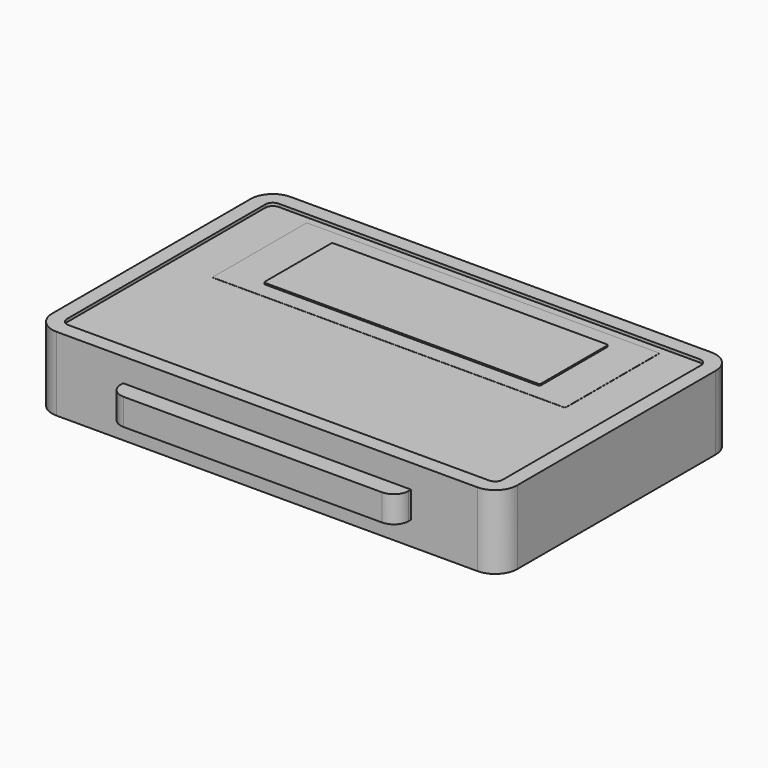
from build123d import *

# Parameters (mm, degrees)
F0_W      = 80.01
F0_H      = 50.292
F1_DEPTH  = 6.35
F2_R      = 3.81
F4_DEPTH  = 0.508
F5_W      = 49.53
F5_H      = 4.572
F6_DEPTH  = 3.048
F7_R      = 2.54
F9_DEPTH  = 0.0254
F11_DEPTH = 0.254
F13_DEPTH = 5.08


with BuildPart() as f1:
    # F0 (on Top) → F1 (new body, symmetric)
    with BuildSketch(Plane.XY):
        Rectangle(F0_W, F0_H)
    extrude(amount=F1_DEPTH, both=True)

    # F2
    f2_edges = [f1.edges().sort_by_distance(p)[0] for p in [
        (-40.005, -25.146, 0),
        (40.005, -25.146, 0),
        (40.005, 25.146, 0),
        (-40.005, 25.146, 0),
    ]]
    fillet(f2_edges, radius=F2_R)

    # F3 (on face) → F4 (cut)
    with BuildSketch(Plane.XY.offset(6.35)):
        with BuildLine():
            ThreePointArc((37.474391, 21.336), (37.099666, 22.240666), (36.195, 22.615391))
            Line((36.195, 22.615391), (-36.195, 22.615391))
            ThreePointArc((-36.195, 22.615391), (-37.099666, 22.240666), (-37.474391, 21.336))
            Line((-37.474391, 21.336), (-37.474391, -21.336))
            ThreePointArc((-37.474391, -21.336), (-37.099666, -22.240666), (-36.195, -22.615391))
            Line((-36.195, -22.615391), (36.195, -22.615391))
            ThreePointArc((36.195, -22.615391), (37.099666, -22.240666), (37.474391, -21.336))
            Line((37.474391, -21.336), (37.474391, 21.336))
        make_face()
    extrude(amount=-F4_DEPTH, mode=Mode.SUBTRACT)

    # F5 (on face) → F6 (join)
    with BuildSketch(Plane.XZ.offset(25.146)):
        Rectangle(F5_W, F5_H)
    extrude(amount=F6_DEPTH)

    # F7
    f7_edges = [f1.edges().sort_by_distance(p)[0] for p in [
        (24.765, -28.194, 0),
        (-24.765, -28.194, 0),
    ]]
    fillet(f7_edges, radius=F7_R)

    # F8 (on face) → F9 (join)
    with BuildSketch(Plane.XY.offset(5.842)):
        with BuildLine():
            Line((30.099, 21.336), (-30.099, 21.336))
            ThreePointArc((-30.099, 21.336), (-30.278605, 21.261605), (-30.353, 21.082))
            Line((-30.353, 21.082), (-30.353, 1.27))
            ThreePointArc((-30.353, 1.27), (-30.278605, 1.090395), (-30.099, 1.016))
            Line((-30.099, 1.016), (30.099, 1.016))
            ThreePointArc((30.099, 1.016), (30.278605, 1.090395), (30.353, 1.27))
            Line((30.353, 1.27), (30.353, 21.082))
            ThreePointArc((30.353, 21.082), (30.278605, 21.261605), (30.099, 21.336))
        make_face()
    extrude(amount=F9_DEPTH)

    # F10 (on face) → F11 (join)
    with BuildSketch(Plane.XY.offset(5.8674)):
        with BuildLine():
            Line((23.495, 18.542), (-23.495, 18.542))
            ThreePointArc((-23.495, 18.542), (-23.674605, 18.467605), (-23.749, 18.288))
            Line((-23.749, 18.288), (-23.749, 4.064))
            ThreePointArc((-23.749, 4.064), (-23.674605, 3.884395), (-23.495, 3.81))
            Line((-23.495, 3.81), (23.495, 3.81))
            ThreePointArc((23.495, 3.81), (23.674605, 3.884395), (23.749, 4.064))
            Line((23.749, 4.064), (23.749, 18.288))
            ThreePointArc((23.749, 18.288), (23.674605, 18.467605), (23.495, 18.542))
        make_face()
    extrude(amount=F11_DEPTH)

    # F12 (on face) → F13 (cut)
    with BuildSketch(Plane(origin=(0, 0, -6.35), x_dir=(1, 0, 0), z_dir=(0, 0, -1))):
        with BuildLine():
            Line((14.401857, -17.68688), (14.401857, -20.053012))
            ThreePointArc((14.401857, -20.053012), (14.4018, -20.066), (14.401857, -20.078988))
            ThreePointArc((14.401857, -20.078988), (15.881494, -21.539186), (17.3482, -20.066))
            Line((17.3482, -20.066), (17.3482, -17.686856))
            ThreePointArc((17.3482, -17.686856), (15.874969, -10.3632), (14.401857, -17.68688))
        make_face()
        with BuildLine():
            ThreePointArc((-14.401857, -17.68688), (-15.874969, -10.3632), (-17.3482, -17.686856))
            Line((-17.3482, -17.686856), (-17.3482, -20.066))
            ThreePointArc((-17.3482, -20.066), (-15.881494, -21.539186), (-14.401857, -20.078988))
            ThreePointArc((-14.401857, -20.078988), (-14.4018, -20.066), (-14.401857, -20.053012))
            Line((-14.401857, -20.053012), (-14.401857, -17.68688))
        make_face()
    extrude(amount=-F13_DEPTH, mode=Mode.SUBTRACT)


solid = f1.part
